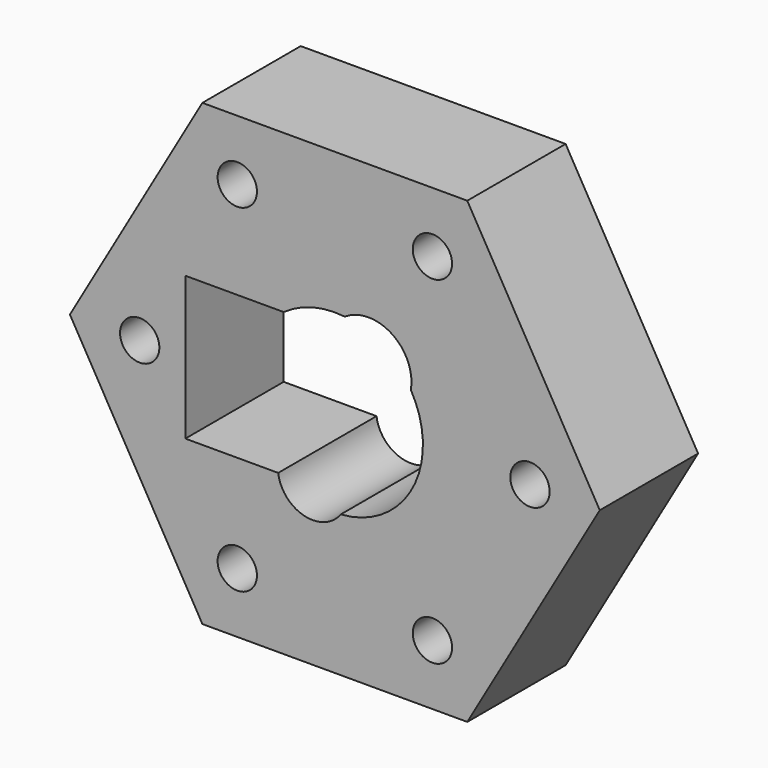
from build123d import *

# Parameters (mm, degrees)
F0_R     = 2.4
F1_DEPTH = 15
F3_DEPTH = 25


with BuildPart() as f1:
    # F0 (on Front) → F1 (new body)
    with BuildSketch(Plane.XZ):
        Polygon((16.165808, 28), (-16.165808, 28), (-32.331615, 0), (-16.165808, -28), (16.165808, -28), (32.331615, 0), align=None)
        with Locations((-11.9075, -20.624395)):
            Circle(F0_R, mode=Mode.SUBTRACT)
        with Locations((11.9075, -20.624395)):
            Circle(F0_R, mode=Mode.SUBTRACT)
        with Locations((-23.815, 0)):
            Circle(F0_R, mode=Mode.SUBTRACT)
        with Locations((-11.9075, 20.624395)):
            Circle(F0_R, mode=Mode.SUBTRACT)
        with Locations((23.815, 0)):
            Circle(F0_R, mode=Mode.SUBTRACT)
        with Locations((11.9075, 20.624395)):
            Circle(F0_R, mode=Mode.SUBTRACT)
    extrude(amount=F1_DEPTH)

    # F2 (on face) → F3 (cut)
    with BuildSketch(Plane.XZ.offset(15)):
        with BuildLine():
            ThreePointArc((-6.913185, -8.75), (-3.76319, -12.31774), (0.721978, -10.725728))
            ThreePointArc((0.721978, -10.725728), (9.500181, -5.03081), (9.277499, 5.430516))
            ThreePointArc((9.277499, 5.430516), (6.963643, 10.700233), (1.208341, 10.681873))
            ThreePointArc((1.208341, 10.681873), (-2.697223, 10.406127), (-6.244998, 8.75))
            Line((-6.244998, 8.75), (-18.244998, 8.75))
            Line((-18.244998, 8.75), (-18.244998, -8.75))
            Line((-18.244998, -8.75), (-6.913185, -8.75))
        make_face()
    extrude(amount=-F3_DEPTH, mode=Mode.SUBTRACT)


solid = f1.part
